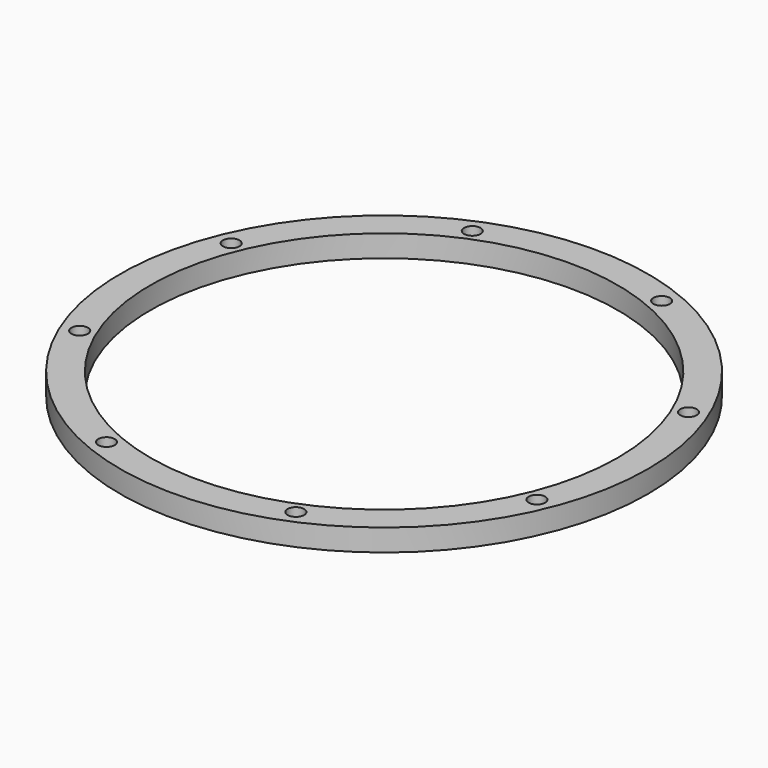
from build123d import *

# Parameters (mm, degrees)
F0_R     = 152.4
F0_R_2   = 4.7625
F0_R_3   = 134.9375
F1_DEPTH = 12.7


with BuildPart() as f1:
    # F0 (on Top) → F1 (new body)
    with BuildSketch(Plane.XY):
        Circle(F0_R)
        with Locations((-54.675895, -131.999288)):
            Circle(F0_R_2, mode=Mode.SUBTRACT)
        with Locations((-131.999288, -54.675895)):
            Circle(F0_R_2, mode=Mode.SUBTRACT)
        with Locations((54.675895, -131.999288)):
            Circle(F0_R_2, mode=Mode.SUBTRACT)
        with Locations((131.999288, -54.675895)):
            Circle(F0_R_2, mode=Mode.SUBTRACT)
        with Locations((-131.999288, 54.675895)):
            Circle(F0_R_2, mode=Mode.SUBTRACT)
        with Locations((-54.675895, 131.999288)):
            Circle(F0_R_2, mode=Mode.SUBTRACT)
        Circle(F0_R_3, mode=Mode.SUBTRACT)
        with Locations((131.999288, 54.675895)):
            Circle(F0_R_2, mode=Mode.SUBTRACT)
        with Locations((54.675895, 131.999288)):
            Circle(F0_R_2, mode=Mode.SUBTRACT)
    extrude(amount=F1_DEPTH)


solid = f1.part
